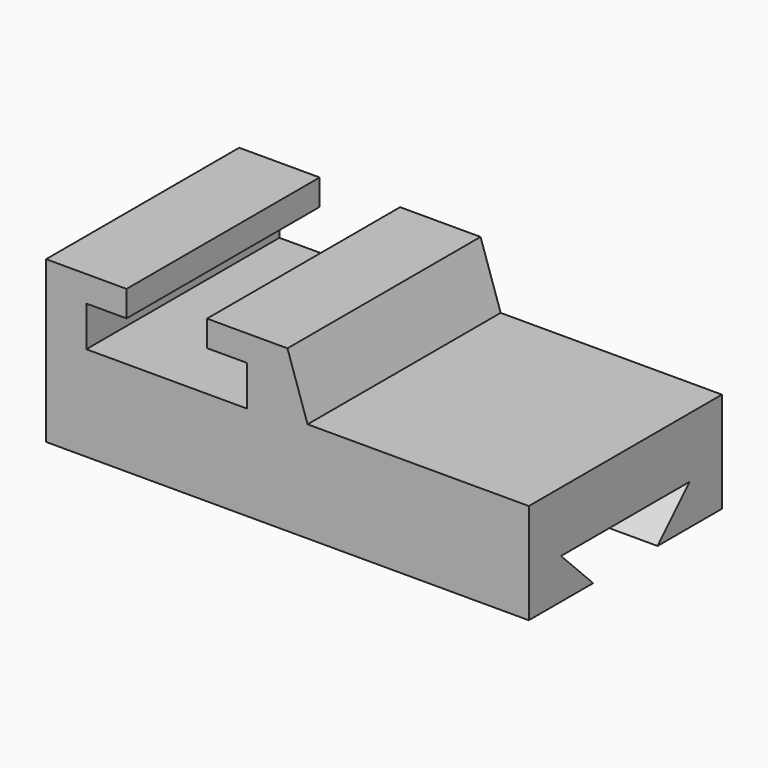
from build123d import *

# Parameters (mm, degrees)
F1_DEPTH = 76.2
F3_DEPTH = 152.4


with BuildPart() as f1:
    # F0 (on Front) → F1 (new body)
    with BuildSketch(Plane.XZ):
        Polygon((-57.15, 19.05), (-82.55, 19.05), (-82.55, -31.75), (69.85, -31.75), (69.85, 0), (0, 0), (-6.35, 19.05), (-31.75, 19.05), (-31.75, 10.847918), (-19.05, 10.847918), (-19.05, -1.852082), (-69.85, -1.852082), (-69.85, 10.847918), (-57.15, 10.847918), align=None)
    extrude(amount=F1_DEPTH)

    # F2 (on face) → F3 (cut)
    with BuildSketch(Plane.YZ.offset(69.85)):
        Polygon((-63.5, -19.05), (-50.8, -31.75), (-25.4, -31.75), (-12.7, -19.05), align=None)
    extrude(amount=-F3_DEPTH, mode=Mode.SUBTRACT)


solid = f1.part
